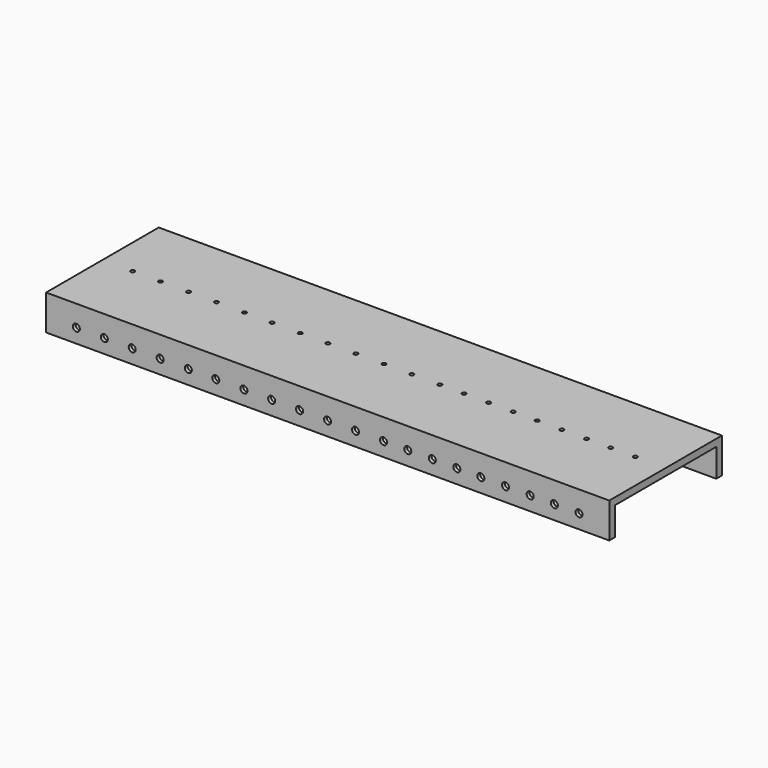
from build123d import *

# Parameters (mm, degrees)
F0_W          = 25.4
F0_H          = 25.4
F1_DEPTH      = 254
F1_DEPTH_BACK = 254
F3_D          = 3.6068
F6_D          = 12.7
F7_D          = 6.35
F7_DEPTH      = 3.175
F7_TIP        = 1.9077324654
F8_W          = 25.4
F8_H          = 25.4
F8_R          = 6.35
F9_DEPTH      = 101.6
F10_W         = 25.4
F10_H         = 25.4
F10_R         = 6.35
F11_DEPTH     = 101.6
F12_W         = 203.2
F12_H         = 25.4
F13_DEPTH     = 25.4


with BuildPart() as f1:
    # F0 (on Right) → F1 (new body, two sides)
    with BuildSketch(Plane.YZ) as f1_sk:
        Polygon((-57.15, -25.4), (-57.15, 0), (-31.75, 0), (31.75, 0), (57.15, 0), (57.15, -25.4), (63.5, -25.4), (63.5, 6.35), (-63.5, 6.35), (-63.5, -25.4), align=None)
        with Locations((-44.45, -12.7)):
            Rectangle(F0_W, F0_H)
        with Locations((44.45, -12.7)):
            Rectangle(F0_W, F0_H)
    extrude(amount=F1_DEPTH)
    extrude(f1_sk.sketch, amount=-F1_DEPTH_BACK)

    # F3 (through all)
    with Locations(Plane.XY.offset(6.35)):
        with Locations((-226.6823, 0), (-201.4855, 0), (-176.2887, 0), (-151.0919, 0), (-125.7427, 0), (-100.9523, 0), (-75.5523, 0), (-50.5333, 0), (-25.3873, 0), (-0.0635, 0), (25.0825, 0), (50.3809, 0), (72.2249, 0), (94.3483, 0), (116.4971, 0), (138.1379, 0), (160.4137, 0), (182.6641, 0), (204.4065, 0), (226.6823, 0)):
            Hole(F3_D / 2)

    # F6 (through all)
    with Locations(Plane.YZ.offset(254)):
        with Locations((-44.45, -12.7), (44.45, -12.7)):
            Hole(F6_D / 2)

    # F7
    with Locations(Plane.XZ.offset(63.5)):
        with Locations((-226.6823, -12.7), (-201.4855, -12.7), (-176.2887, -12.7), (-151.0919, -12.7), (-125.7427, -12.7), (-100.9523, -12.7), (-75.5523, -12.7), (-50.5333, -12.7), (-25.3873, -12.7), (-0.0635, -12.7), (25.0825, -12.7), (50.3809, -12.7), (72.2249, -12.7), (94.3483, -12.7), (116.4971, -12.7), (138.1379, -12.7), (160.4137, -12.7), (182.6641, -12.7), (204.4065, -12.7), (226.6823, -12.7)):
            Hole(F7_D / 2, depth=F7_DEPTH)
            with Locations((0, 0, -(F7_DEPTH + F7_TIP / 2))):  # 118° drill point
                Cone(0, F7_D / 2, F7_TIP, mode=Mode.SUBTRACT)

    # F8 (on face) → F9 (cut)
    with BuildSketch(Plane.YZ.offset(254)):
        with Locations((44.45, -12.7)):
            Rectangle(F8_W, F8_H)
        with Locations((44.45, -12.7)):
            Circle(F8_R, mode=Mode.SUBTRACT)
        with Locations((-44.45, -12.7)):
            Rectangle(F8_W, F8_H)
        with Locations((-44.45, -12.7)):
            Circle(F8_R, mode=Mode.SUBTRACT)
    extrude(amount=-F9_DEPTH, mode=Mode.SUBTRACT)

    # F10 (on face) → F11 (cut)
    with BuildSketch(Plane(origin=(-254, 0, 0), x_dir=(0, -1, 0), z_dir=(-1, 0, 0))):
        with Locations((-44.45, -12.7)):
            Rectangle(F10_W, F10_H)
        with Locations((-44.45, -12.7)):
            Circle(F10_R, mode=Mode.SUBTRACT)
        with Locations((44.45, -12.7)):
            Rectangle(F10_W, F10_H)
        with Locations((44.45, -12.7)):
            Circle(F10_R, mode=Mode.SUBTRACT)
    extrude(amount=-F11_DEPTH, mode=Mode.SUBTRACT)

    # F12 (on face) → F13 (cut)
    with BuildSketch(Plane(origin=(0, 0, -25.4), x_dir=(1, 0, 0), z_dir=(0, 0, -1))):
        with Locations((0, -44.45)):
            Rectangle(F12_W, F12_H)
        with Locations((0, 44.45)):
            Rectangle(F12_W, F12_H)
    extrude(amount=-F13_DEPTH, mode=Mode.SUBTRACT)


solid = f1.part
